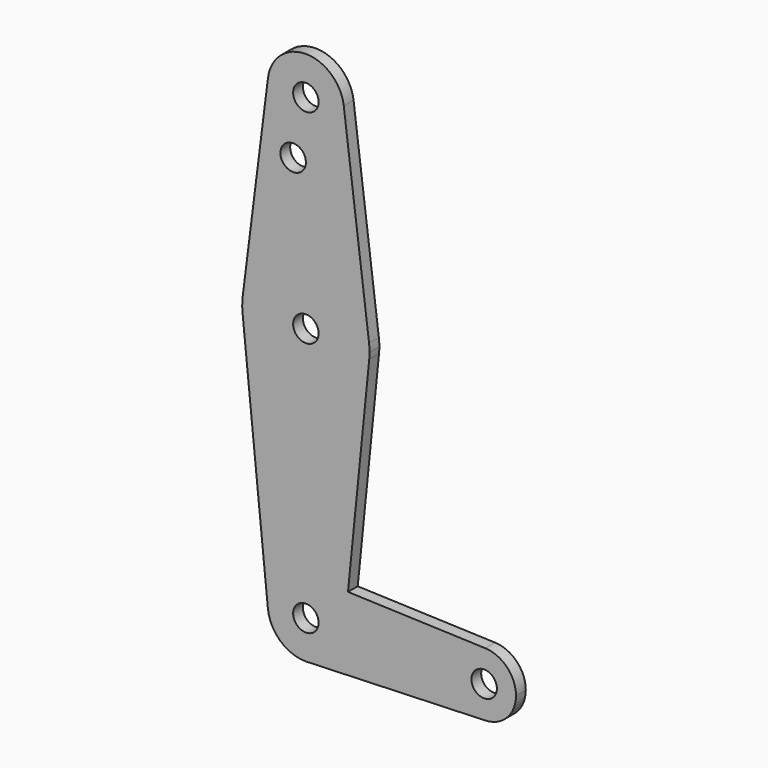
from build123d import *

# Parameters (mm, degrees)
F0_R     = 3.175
F1_DEPTH = 3.048


with BuildPart() as f1:
    # F0 (on Front) → F1 (new body)
    with BuildSketch(Plane.XZ):
        with BuildLine():
            ThreePointArc((44.7324052746, -7.9324746146), (50.1616327839, -5.5119104847), (52.3875, 0))
            ThreePointArc((52.3875, 0), (50.1620069047, 5.5115227815), (44.7334821429, 7.9324362036))
            ThreePointArc((44.7334821429, 7.9324362036), (36.5125000183, 0.0005387766), (44.7324052746, -7.9324746146))
        make_face()
        with Locations((44.45, 0)):
            Circle(F0_R, mode=Mode.SUBTRACT)
        with BuildLine():
            ThreePointArc((44.7324052746, -7.9324746146), (36.5125000183, 0.0005387766), (44.7334821429, 7.9324362036))
            Line((44.7334821429, 7.9324362036), (10.4932062399, 9.1560838367))
            Line((10.4932062399, 9.1560838367), (9.4772553384, -0.9525))
            ThreePointArc((9.4772553384, -0.9525), (6.6368437169, -6.8321248875), (0.6773435479, -9.500885786))
            Line((0.6773435479, -9.500885786), (44.7324052746, -7.9324746146))
        make_face()
        with BuildLine():
            Line((9.4772553384, -0.9525), (10.4932062399, 9.1560838367))
            Line((10.4932062399, 9.1560838367), (0.3401787076, 9.5189234395))
            ThreePointArc((0.3401787076, 9.5189234395), (6.8544083329, 6.6138272887), (9.525, 0))
            ThreePointArc((9.525, 0), (9.5130563464, -0.4768479324), (9.4772553384, -0.9525))
        make_face()
        with BuildLine():
            Line((0.3401787076, 9.5189234395), (10.4932062399, 9.1560838367))
            Line((10.4932062399, 9.1560838367), (15.7954255641, 61.9125))
            ThreePointArc((15.7954255641, 61.9125), (0, 47.625), (-15.7954255641, 61.9125))
            Line((-15.7954255641, 61.9125), (-9.4772553384, -0.9525))
            ThreePointArc((-9.4772553384, -0.9525), (-6.9486847354, 6.5147068582), (0.3401787076, 9.5189234395))
        make_face()
        with BuildLine():
            Line((0, -9.525), (0.6773435479, -9.500885786))
            ThreePointArc((0.6773435479, -9.500885786), (6.6368437169, -6.8321248875), (9.4772553384, -0.9525))
            ThreePointArc((9.4772553384, -0.9525), (9.5130563464, -0.4768479324), (9.525, 0))
            ThreePointArc((9.525, 0), (6.8544083329, 6.6138272887), (0.3401787076, 9.5189234395))
            ThreePointArc((0.3401787076, 9.5189234395), (-6.9486847354, 6.5147068582), (-9.4772553384, -0.9525))
            ThreePointArc((-9.4772553384, -0.9525), (-6.3895642457, -7.063929059), (0, -9.525))
        make_face()
        Circle(F0_R, mode=Mode.SUBTRACT)
        with BuildLine():
            ThreePointArc((0, -9.525), (0.3388863295, -9.5189695375), (0.6773435479, -9.500885786))
            Line((0.6773435479, -9.500885786), (0, -9.525))
        make_face()
        with BuildLine():
            ThreePointArc((-15.7954255641, 61.9125), (0, 47.625), (15.7954255641, 61.9125))
            ThreePointArc((15.7954255641, 61.9125), (15.8550939106, 62.7052534459), (15.875, 63.5))
            ThreePointArc((15.875, 63.5), (15.8438414904, 64.4941387366), (15.7504882737, 65.484375))
            ThreePointArc((15.7504882737, 65.484375), (10.5003255158, 75.40625), (0, 79.375))
            ThreePointArc((0, 79.375), (-10.5003255158, 75.40625), (-15.7504882737, 65.484375))
            ThreePointArc((-15.7504882737, 65.484375), (-15.8737438155, 63.6997054867), (-15.7954255641, 61.9125))
        make_face()
        with BuildLine():
            ThreePointArc((3.175, 63.5), (-2.2450640303, 61.2549359697), (0, 66.675))
            ThreePointArc((0, 66.675), (2.2450640303, 65.7450640303), (3.175, 63.5))
        make_face(mode=Mode.SUBTRACT)
        with BuildLine():
            Line((-9.4502929642, 115.490625), (-15.7504882737, 65.484375))
            ThreePointArc((-15.7504882737, 65.484375), (-10.5003255158, 75.40625), (0, 79.375))
            ThreePointArc((0, 79.375), (10.5003255158, 75.40625), (15.7504882737, 65.484375))
            Line((15.7504882737, 65.484375), (9.4502929642, 115.490625))
            ThreePointArc((9.4502929642, 115.490625), (9.5063048942, 114.896483242), (9.525, 114.3))
            ThreePointArc((9.525, 114.3), (-0.596483242, 104.7936951058), (-9.4502929642, 115.490625))
        make_face()
        with Locations((-3.175, 100.0252)):
            Circle(F0_R, mode=Mode.SUBTRACT)
        with BuildLine():
            ThreePointArc((9.4502929642, 115.490625), (0, 123.825), (-9.4502929642, 115.490625))
            ThreePointArc((-9.4502929642, 115.490625), (-0.596483242, 104.7936951058), (9.525, 114.3))
            ThreePointArc((9.525, 114.3), (9.5063048942, 114.896483242), (9.4502929642, 115.490625))
        make_face()
        with Locations((0, 114.3)):
            Circle(F0_R, mode=Mode.SUBTRACT)
    extrude(amount=F1_DEPTH)


solid = f1.part
